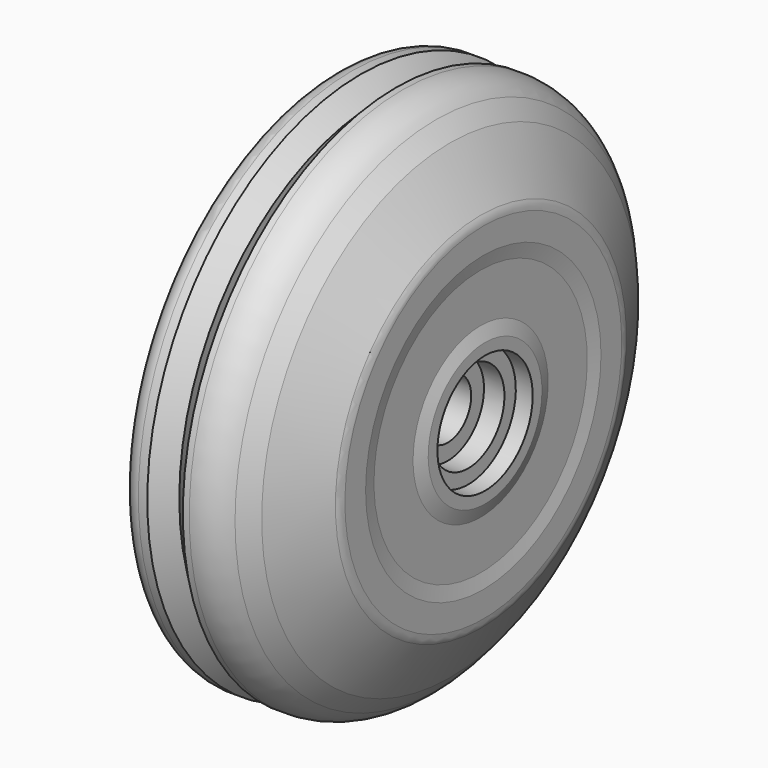
from build123d import *


with BuildPart() as f1:
    # F0 (on Front) → F1 (revolve)
    with BuildSketch(Plane.XZ):
        with BuildLine():
            Line((3, 30), (2, 30))
            ThreePointArc((2, 30), (0.585786, 29.414214), (0, 28))
            Line((0, 28), (0, 24.727681))
            ThreePointArc((0, 24.727681), (0.120536, 24.043856), (0.467617, 23.442457))
            Line((0.467617, 23.442457), (9.637278, 12.509399))
            ThreePointArc((9.637278, 12.509399), (10.475889, 9.065084), (8.248744, 6.307113))
            Line((8.248744, 6.307113), (0.580942, 2.768127))
            ThreePointArc((0.580942, 2.768127), (0.157665, 2.399121), (0, 1.860168))
            Line((0, 1.860168), (0, 0))
            Line((0, 0), (6.8, 0))
            Line((6.8, 0), (6.8, 3.3))
            Line((6.8, 3.3), (12.8, 3.3))
            Line((12.8, 3.3), (12.8, 5.1))
            Line((12.8, 5.1), (15.1, 5.1))
            Line((15.1, 5.1), (15.1, 6.7))
            Line((15.1, 6.7), (17, 6.7))
            Line((17, 6.7), (17, 8))
            Line((17, 8), (16.5, 9.5))
            Line((16.5, 9.5), (16.5, 15))
            Line((16.5, 15), (16.8, 16.552417))
            Line((16.8, 16.552417), (16.8, 19.464102))
            ThreePointArc((16.8, 19.464102), (16.731852, 19.98174), (16.532051, 20.464102))
            Line((16.532051, 20.464102), (13.056557, 26.483833))
            Line((13.056557, 26.483833), (11.494917, 28.280295))
            ThreePointArc((11.494917, 28.280295), (9.794835, 29.549806), (7.721369, 30))
            Line((7.721369, 30), (7, 30))
            Line((7, 30), (5, 28))
            Line((5, 28), (3, 30))
        make_face()
    revolve(axis=Axis((3.4, 0, 0), (-1, 0, 0)))


solid = f1.part
